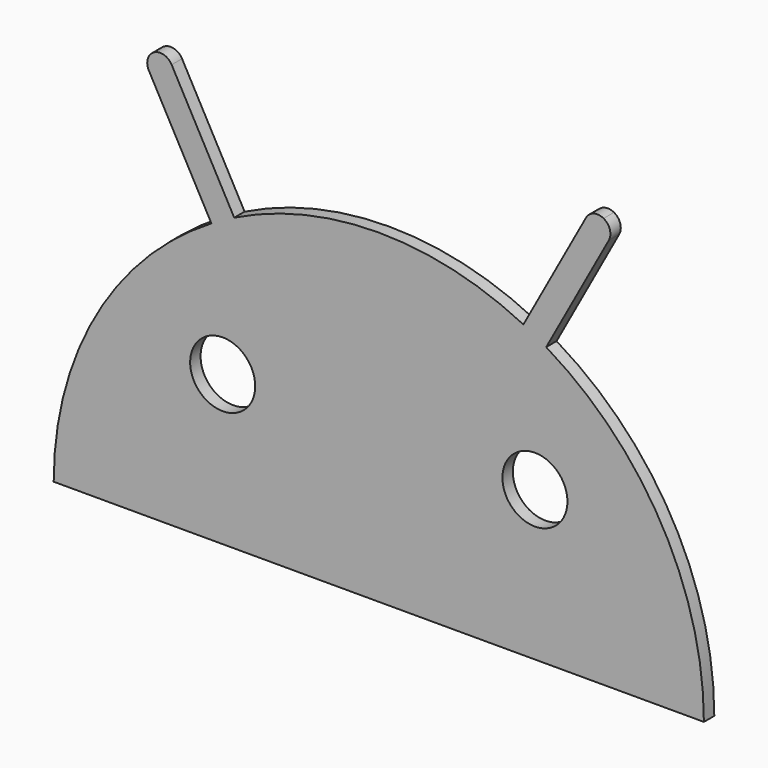
from build123d import *

# Parameters (mm, degrees)
F0_R     = 5
F1_DEPTH = 2


with BuildPart() as f1:
    # F0 (on Front) → F1 (new body)
    with BuildSketch(Plane.XZ):
        with BuildLine():
            ThreePointArc((22.238024, 44.782477), (24.011175, 43.857308), (25.745907, 42.861967))
            Line((25.745907, 42.861967), (35.369586, 60.439977))
            ThreePointArc((35.369586, 60.439977), (35.534871, 61.961453), (34.5759, 63.154173))
            ThreePointArc((34.5759, 63.154173), (33.054424, 63.319458), (31.861703, 62.360486))
            Line((31.861703, 62.360486), (22.238024, 44.782477))
        make_face()
        with BuildLine():
            Line((-35.369586, 60.439977), (-25.745907, 42.861967))
            ThreePointArc((-25.745907, 42.861967), (-24.011175, 43.857308), (-22.238024, 44.782477))
            Line((-22.238024, 44.782477), (-31.861703, 62.360486))
            ThreePointArc((-31.861703, 62.360486), (-33.054424, 63.319458), (-34.5759, 63.154173))
            ThreePointArc((-34.5759, 63.154173), (-35.534871, 61.961453), (-35.369586, 60.439977))
        make_face()
        with BuildLine():
            ThreePointArc((-25.745907, 42.861967), (-43.516062, 24.624222), (-50, 0))
            Line((-50, 0), (50, 0))
            ThreePointArc((50, 0), (43.516062, 24.624222), (25.745907, 42.861967))
            ThreePointArc((25.745907, 42.861967), (24.011175, 43.857308), (22.238024, 44.782477))
            ThreePointArc((22.238024, 44.782477), (0, 50), (-22.238024, 44.782477))
            ThreePointArc((-22.238024, 44.782477), (-24.011175, 43.857308), (-25.745907, 42.861967))
        make_face()
        with Locations((-24.011175, 23)):
            Circle(F0_R, mode=Mode.SUBTRACT)
        with Locations((24.011175, 23)):
            Circle(F0_R, mode=Mode.SUBTRACT)
    extrude(amount=F1_DEPTH)


solid = f1.part
